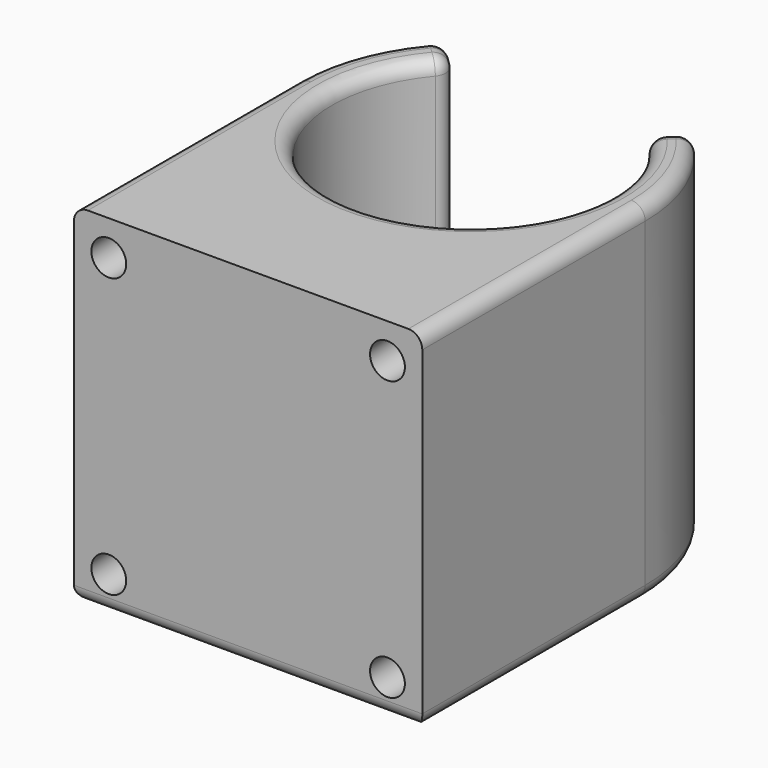
from build123d import *

# Parameters (mm, degrees)
F1_DEPTH = 31.75
F2_R     = 1.5875
F3_DEPTH = 3.048
F4_R     = 1.27


with BuildPart() as f1:
    # F0 (on Top) → F1 (new body)
    with BuildSketch(Plane.XY):
        with BuildLine():
            ThreePointArc((8.980256, 8.980256), (0, -12.7), (-8.980256, 8.980256))
            Line((-8.980256, 8.980256), (-11.22532, 11.22532))
            ThreePointArc((-11.22532, 11.22532), (-14.666588, 6.075099), (-15.875, 0))
            Line((-15.875, 0), (-15.875, -25.4))
            Line((-15.875, -25.4), (15.875, -25.4))
            Line((15.875, -25.4), (15.875, 0))
            ThreePointArc((15.875, 0), (14.666588, 6.075099), (11.22532, 11.22532))
            Line((11.22532, 11.22532), (8.980256, 8.980256))
        make_face()
    extrude(amount=F1_DEPTH)

    # F2 (on face) → F3 (cut)
    with BuildSketch(Plane.XZ.offset(25.4)):
        with Locations((-12.7, 28.575)):
            Circle(F2_R)
        with Locations((12.7, 28.575)):
            Circle(F2_R)
        with Locations((12.7, 3.175)):
            Circle(F2_R)
        with Locations((-12.7, 3.175)):
            Circle(F2_R)
    extrude(amount=-F3_DEPTH, mode=Mode.SUBTRACT)

    # F4
    f4_edges = [f1.edges().sort_by_distance(p)[0] for p in [
        (-15.875, -12.7, 31.75),
        (0, -12.7, 31.75),
        (15.875, -12.7, 31.75),
        (10.102788, 10.102788, 0),
        (0, -12.7, 0),
        (-10.102788, 10.102788, 0),
        (-14.666588, 6.075099, 0),
        (-15.875, -12.7, 0),
        (0, -25.4, 0),
        (15.875, -12.7, 0),
        (14.666588, 6.075099, 0),
        (-8.980256, 8.980256, 15.875),
        (-11.22532, 11.22532, 15.875),
        (-10.102788, 10.102788, 31.75),
        (11.22532, 11.22532, 15.875),
        (8.980256, 8.980256, 15.875),
        (10.102788, 10.102788, 31.75),
    ]]
    fillet(f4_edges, radius=F4_R)


solid = f1.part
